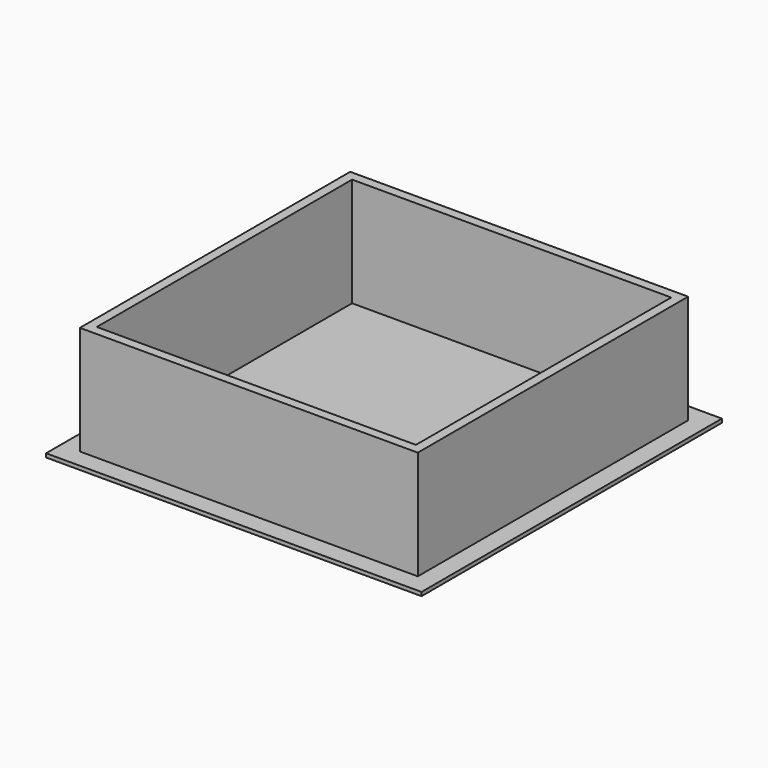
from build123d import *

# Parameters (mm, degrees)
F0_W     = 90
F0_H     = 90
F0_W_2   = 85
F0_H_2   = 85
F1_DEPTH = 30
F0_W_3   = 100
F0_H_3   = 100
F2_DEPTH = 1


with BuildPart() as f1:
    # F0 (on Top) → F1 (new body)
    with BuildSketch(Plane.XY):
        Rectangle(F0_W, F0_H)
        Rectangle(F0_W_2, F0_H_2, mode=Mode.SUBTRACT)
    extrude(amount=F1_DEPTH)

    # F0 (on Top) → F2 (join)
    with BuildSketch(Plane.XY):
        Rectangle(F0_W_3, F0_H_3)
        Rectangle(F0_W, F0_H, mode=Mode.SUBTRACT)
        Rectangle(F0_W_2, F0_H_2)
    extrude(amount=F2_DEPTH)


solid = f1.part
